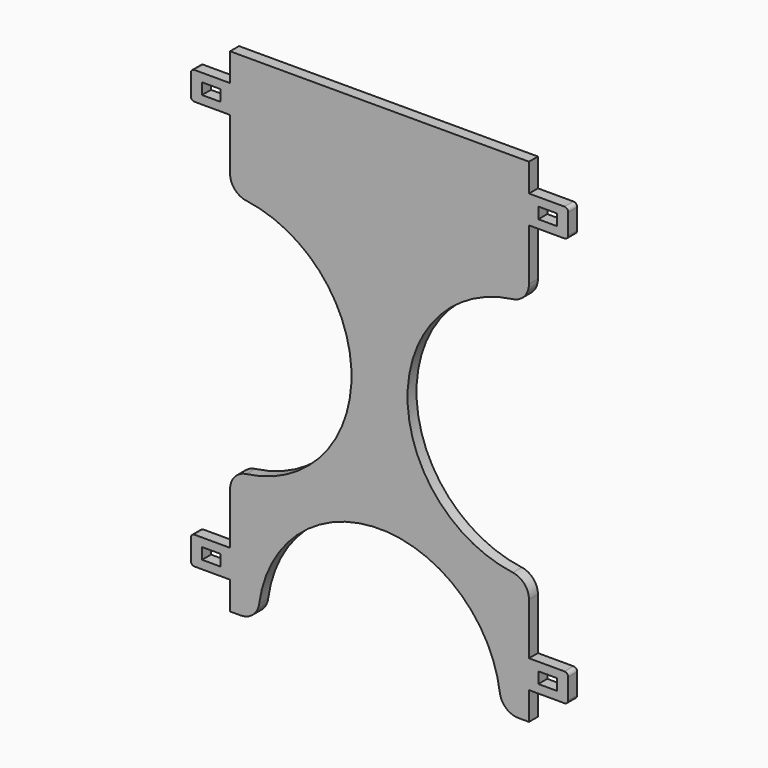
from build123d import *

# Parameters (mm, degrees)
F1_DEPTH = 6
F2_W     = 10
F2_H     = 6
F3_DEPTH = 25


with BuildPart() as f1:
    # F0 (on Front) → F1 (new body)
    with BuildSketch(Plane.XZ):
        with BuildLine():
            Line((80, 132), (-80, 132))
            Line((-80, 132), (-80, 117))
            Line((-80, 117), (-80, 102))
            Line((-80, 102), (-80, 74.330344))
            ThreePointArc((-80, 74.330344), (-77.527727, 67.747538), (-71.333333, 64.419631))
            ThreePointArc((-71.333333, 64.419631), (-15, 0), (-71.333333, -64.419631))
            ThreePointArc((-71.333333, -64.419631), (-77.527727, -67.747538), (-80, -74.330344))
            Line((-80, -74.330344), (-80, -102))
            Line((-80, -102), (-80, -117))
            Line((-80, -117), (-80, -132))
            Line((-80, -132), (-74.330344, -132))
            ThreePointArc((-74.330344, -132), (-67.747538, -129.527727), (-64.419631, -123.333333))
            ThreePointArc((-64.419631, -123.333333), (0, -67), (64.419631, -123.333333))
            ThreePointArc((64.419631, -123.333333), (67.747538, -129.527727), (74.330344, -132))
            Line((74.330344, -132), (80, -132))
            Line((80, -132), (80, -117))
            Line((80, -117), (80, -102))
            Line((80, -102), (80, -74.330344))
            ThreePointArc((80, -74.330344), (77.527727, -67.747538), (71.333333, -64.419631))
            ThreePointArc((71.333333, -64.419631), (15, 0), (71.333333, 64.419631))
            ThreePointArc((71.333333, 64.419631), (77.527727, 67.747538), (80, 74.330344))
            Line((80, 74.330344), (80, 102))
            Line((80, 102), (80, 117))
            Line((80, 117), (80, 132))
        make_face()
        with BuildLine():
            Line((-80, 102), (-80, 117))
            Line((-80, 117), (-99, 117))
            ThreePointArc((-99, 117), (-100.414214, 116.414214), (-101, 115))
            Line((-101, 115), (-101, 104))
            ThreePointArc((-101, 104), (-100.414214, 102.585786), (-99, 102))
            Line((-99, 102), (-80, 102))
        make_face()
        with BuildLine():
            Line((99, 117), (80, 117))
            Line((80, 117), (80, 102))
            Line((80, 102), (99, 102))
            ThreePointArc((99, 102), (100.414214, 102.585786), (101, 104))
            Line((101, 104), (101, 115))
            ThreePointArc((101, 115), (100.414214, 116.414214), (99, 117))
        make_face()
        with BuildLine():
            Line((-80, -117), (-80, -102))
            Line((-80, -102), (-99, -102))
            ThreePointArc((-99, -102), (-100.414214, -102.585786), (-101, -104))
            Line((-101, -104), (-101, -115))
            ThreePointArc((-101, -115), (-100.414214, -116.414214), (-99, -117))
            Line((-99, -117), (-80, -117))
        make_face()
        with BuildLine():
            Line((99, -102), (80, -102))
            Line((80, -102), (80, -117))
            Line((80, -117), (99, -117))
            ThreePointArc((99, -117), (100.414214, -116.414214), (101, -115))
            Line((101, -115), (101, -104))
            ThreePointArc((101, -104), (100.414214, -102.585786), (99, -102))
        make_face()
    extrude(amount=F1_DEPTH)

    # F2 (on face) → F3 (cut)
    with BuildSketch(Plane.XZ.offset(6)):
        with Locations((-90, 109.5)):
            Rectangle(F2_W, F2_H)
        with Locations((90, 109.5)):
            Rectangle(F2_W, F2_H)
        with Locations((-90, -109.5)):
            Rectangle(F2_W, F2_H)
        with Locations((90, -109.5)):
            Rectangle(F2_W, F2_H)
    extrude(amount=-F3_DEPTH, mode=Mode.SUBTRACT)


solid = f1.part
